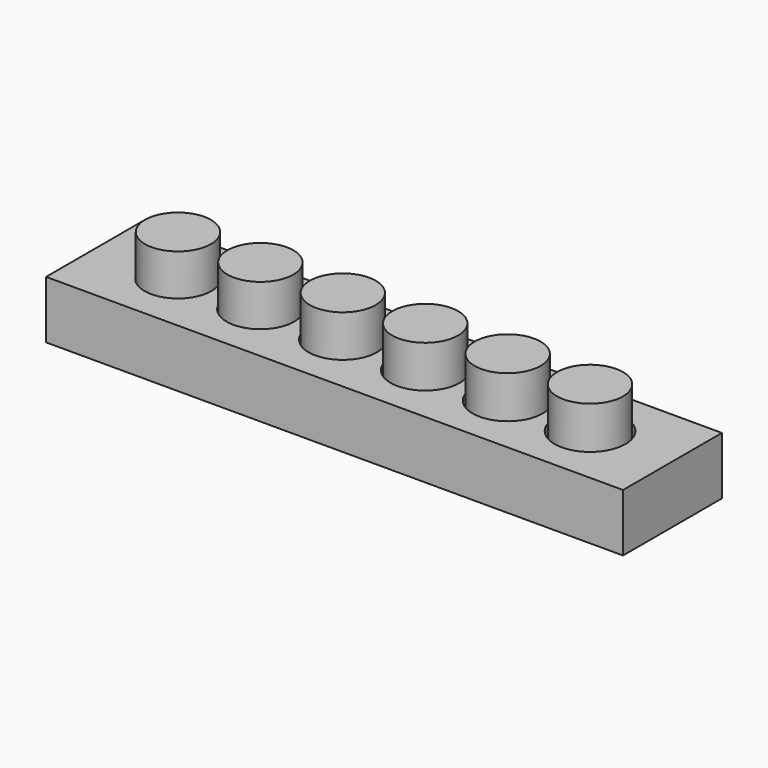
from build123d import *

# Parameters (mm, degrees)
F0_W          = 70
F0_H          = 15
F0_R          = 4.05
F0_R_2        = 4.1
F0_R_3        = 4.15
F0_R_4        = 4.2
F0_R_5        = 4.25
F0_R_6        = 4.3
F1_DEPTH      = 7
F2_DEPTH      = 2
F3_R          = 4
F4_DEPTH      = 5
F4_DEPTH_BACK = 4.8


with BuildPart() as f1:
    # F0 (on Top) → F1 (new body)
    with BuildSketch(Plane.XY):
        Rectangle(F0_W, F0_H)
        with Locations((-25, 0)):
            Circle(F0_R, mode=Mode.SUBTRACT)
        with Locations((-15, 0)):
            Circle(F0_R_2, mode=Mode.SUBTRACT)
        with Locations((-5, 0)):
            Circle(F0_R_3, mode=Mode.SUBTRACT)
        with Locations((5, 0)):
            Circle(F0_R_4, mode=Mode.SUBTRACT)
        with Locations((15, 0)):
            Circle(F0_R_5, mode=Mode.SUBTRACT)
        with Locations((25, 0)):
            Circle(F0_R_6, mode=Mode.SUBTRACT)
    extrude(amount=F1_DEPTH)

    # F0 (on Top) → F2 (join)
    with BuildSketch(Plane.XY):
        with Locations((-25, 0)):
            Circle(F0_R)
        with Locations((-15, 0)):
            Circle(F0_R_2)
        with Locations((-5, 0)):
            Circle(F0_R_3)
        with Locations((5, 0)):
            Circle(F0_R_4)
        with Locations((15, 0)):
            Circle(F0_R_5)
        with Locations((25, 0)):
            Circle(F0_R_6)
    extrude(amount=F2_DEPTH)


with BuildPart() as f4:
    # F3 (on face) → F4 (new body, two sides)
    with BuildSketch(Plane.XY.offset(7)) as f4_sk:
        with Locations((-25, 0)):
            Circle(F3_R)
        with Locations((-15, 0)):
            Circle(F3_R)
        with Locations((-5, 0)):
            Circle(F3_R)
        with Locations((5, 0)):
            Circle(F3_R)
        with Locations((15, 0)):
            Circle(F3_R)
        with Locations((25, 0)):
            Circle(F3_R)
    extrude(amount=F4_DEPTH)
    extrude(f4_sk.sketch, amount=-F4_DEPTH_BACK)


solid = Compound([f1.part, f4.part])
